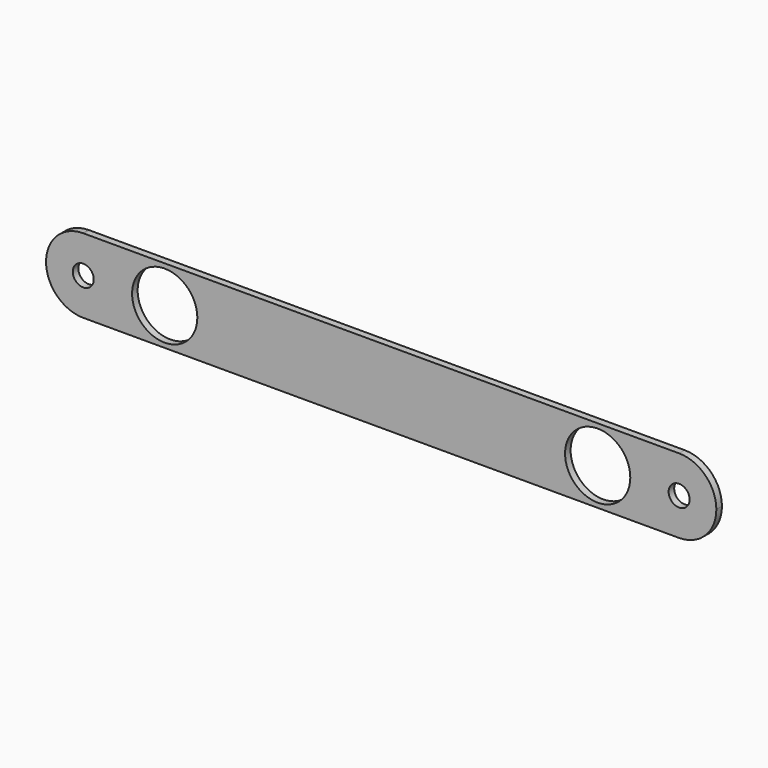
from build123d import *

# Parameters (mm, degrees)
F0_R     = 7.1501
F0_R_2   = 22.2504
F1_DEPTH = 4.7498


with BuildPart() as f1:
    # F0 (on Front) → F1 (new body)
    with BuildSketch(Plane.XZ):
        with BuildLine():
            Line((-202.915108, 25.398402), (-203.485091, 25.3984))
            ThreePointArc((-203.485091, 25.3984), (-228.599045, 0.220278), (-203.92556, -25.389635))
            Line((-203.92556, -25.389635), (-202.475733, -25.389672))
            ThreePointArc((-202.475733, -25.389672), (-184.98522, -17.702593), (-177.8, 0))
            ThreePointArc((-177.8, 0), (-185.139044, 17.859504), (-202.915108, 25.398402))
        make_face()
        with Locations((-203.2, 0)):
            Circle(F0_R, mode=Mode.SUBTRACT)
        with BuildLine():
            Line((203.1999, 25.4), (-202.915108, 25.398402))
            ThreePointArc((-202.915108, 25.398402), (-185.139044, 17.859504), (-177.8, 0))
            ThreePointArc((-177.8, 0), (-184.98522, -17.702593), (-202.475733, -25.389672))
            Line((-202.475733, -25.389672), (203.199353, -25.4))
            ThreePointArc((203.199353, -25.4), (177.8, 0.000273), (203.1999, 25.4))
        make_face()
        with Locations((-147.6502, 0)):
            Circle(F0_R_2, mode=Mode.SUBTRACT)
        with Locations((147.6502, 0)):
            Circle(F0_R_2, mode=Mode.SUBTRACT)
        with BuildLine():
            ThreePointArc((228.6, 0), (221.160477, 17.960548), (203.1999, 25.4))
            ThreePointArc((203.1999, 25.4), (177.8, 0.000273), (203.199353, -25.4))
            ThreePointArc((203.199353, -25.4), (221.160284, -17.960741), (228.6, 0))
        make_face()
        with Locations((203.2, 0)):
            Circle(F0_R, mode=Mode.SUBTRACT)
    extrude(amount=F1_DEPTH)


solid = f1.part
